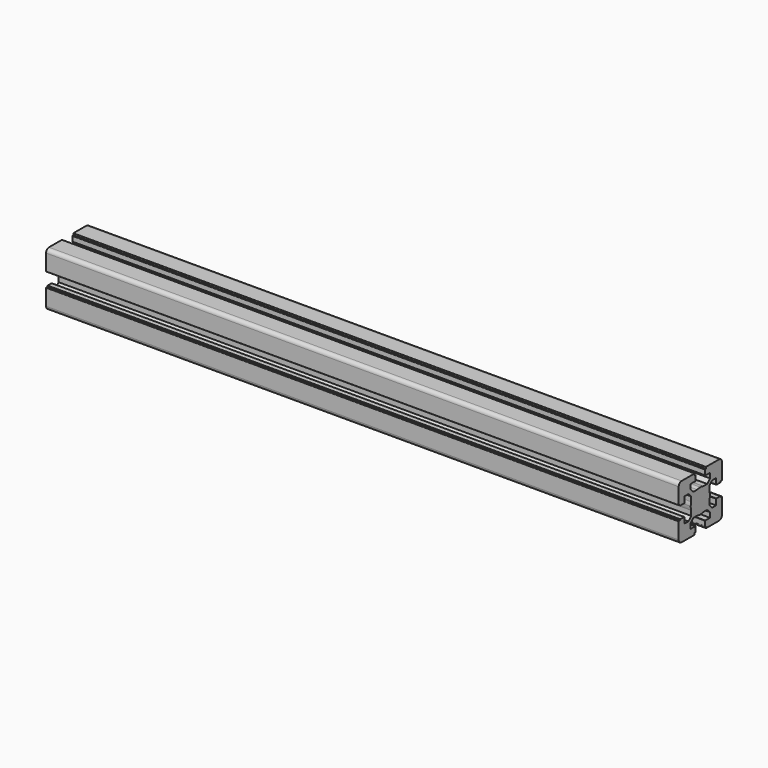
from build123d import *

# Parameters (mm, degrees)
F1_DEPTH = 527.05


with BuildPart() as f1:
    # F0 (on Right) → F1 (new body)
    with BuildSketch(Plane.YZ):
        with BuildLine():
            Line((-20.088481, -9.788837), (-20.088481, -10.288837))
            Line((-20.088481, -10.288837), (-21.28859, -10.288837))
            ThreePointArc((-21.28859, -10.288837), (-21.500722, -10.376705), (-21.58859, -10.588837))
            Line((-21.58859, -10.588837), (-21.58859, -23.988949))
            ThreePointArc((-21.58859, -23.988949), (-20.70991, -26.11027), (-18.58859, -26.988949))
            Line((-18.58859, -26.988949), (-5.188544, -26.988949))
            ThreePointArc((-5.188544, -26.988949), (-4.976411, -26.901081), (-4.888544, -26.688949))
            Line((-4.888544, -26.688949), (-4.888544, -25.488841))
            Line((-4.888544, -25.488841), (-4.388544, -25.488841))
            ThreePointArc((-4.388544, -25.488841), (-4.176411, -25.400973), (-4.088544, -25.188841))
            Line((-4.088544, -25.188841), (-4.088544, -21.288841))
            ThreePointArc((-4.088544, -21.288841), (-4.176411, -21.076709), (-4.388544, -20.988841))
            Line((-4.388544, -20.988841), (-9.138663, -20.988841))
            Line((-9.138663, -20.988841), (-9.138663, -16.881665))
            Line((-9.138663, -16.881665), (-6.245729, -13.988731))
            Line((-6.245729, -13.988731), (-2.211433, -13.988731))
            ThreePointArc((-2.211433, -13.988731), (-0.669869, -14.363044), (0.91149, -14.48887))
            Line((0.91149, -14.48887), (0.91149, -4.48887))
            Line((0.91149, -4.48887), (-9.08851, -4.48887))
            ThreePointArc((-9.08851, -4.48887), (-8.962684, -6.070229), (-8.588371, -7.611793))
            Line((-8.588371, -7.611793), (-8.588371, -11.646022))
            Line((-8.588371, -11.646022), (-11.481305, -14.538956))
            Line((-11.481305, -14.538956), (-15.588481, -14.538956))
            Line((-15.588481, -14.538956), (-15.588481, -9.788837))
            ThreePointArc((-15.588481, -9.788837), (-15.676349, -9.576705), (-15.888481, -9.488837))
            Line((-15.888481, -9.488837), (-19.788481, -9.488837))
            ThreePointArc((-19.788481, -9.488837), (-20.000613, -9.576705), (-20.088481, -9.788837))
        make_face()
        with BuildLine():
            ThreePointArc((-8.588371, -1.365947), (-8.962684, -2.907511), (-9.08851, -4.48887))
            Line((-9.08851, -4.48887), (0.91149, -4.48887))
            Line((0.91149, -4.48887), (0.91149, 5.51113))
            ThreePointArc((0.91149, 5.51113), (-0.669869, 5.385303), (-2.211433, 5.010991))
            Line((-2.211433, 5.010991), (-6.245729, 5.010991))
            Line((-6.245729, 5.010991), (-9.138663, 7.903925))
            Line((-9.138663, 7.903925), (-9.138663, 12.011101))
            Line((-9.138663, 12.011101), (-4.388544, 12.011101))
            ThreePointArc((-4.388544, 12.011101), (-4.176411, 12.098969), (-4.088544, 12.311101))
            Line((-4.088544, 12.311101), (-4.088544, 16.211101))
            ThreePointArc((-4.088544, 16.211101), (-4.176411, 16.423233), (-4.388544, 16.511101))
            Line((-4.388544, 16.511101), (-4.888544, 16.511101))
            Line((-4.888544, 16.511101), (-4.888544, 17.711209))
            ThreePointArc((-4.888544, 17.711209), (-4.976411, 17.923341), (-5.188544, 18.011209))
            Line((-5.188544, 18.011209), (-18.58859, 18.011209))
            ThreePointArc((-18.58859, 18.011209), (-20.70991, 17.13253), (-21.58859, 15.011209))
            Line((-21.58859, 15.011209), (-21.58859, 1.611097))
            ThreePointArc((-21.58859, 1.611097), (-21.500722, 1.398965), (-21.28859, 1.311097))
            Line((-21.28859, 1.311097), (-20.088481, 1.311097))
            Line((-20.088481, 1.311097), (-20.088481, 0.811097))
            ThreePointArc((-20.088481, 0.811097), (-20.000613, 0.598965), (-19.788481, 0.511097))
            Line((-19.788481, 0.511097), (-15.888481, 0.511097))
            ThreePointArc((-15.888481, 0.511097), (-15.676349, 0.598965), (-15.588481, 0.811097))
            Line((-15.588481, 0.811097), (-15.588481, 5.561216))
            Line((-15.588481, 5.561216), (-11.481305, 5.561216))
            Line((-11.481305, 5.561216), (-8.588371, 2.668282))
            Line((-8.588371, 2.668282), (-8.588371, -1.365947))
        make_face()
        with BuildLine():
            Line((0.91149, 5.51113), (0.91149, -4.48887))
            Line((0.91149, -4.48887), (10.91149, -4.48887))
            ThreePointArc((10.91149, -4.48887), (10.785663, -2.907511), (10.41135, -1.365947))
            Line((10.41135, -1.365947), (10.41135, 2.668282))
            Line((10.41135, 2.668282), (13.304285, 5.561216))
            Line((13.304285, 5.561216), (14.016842, 5.561216))
            Line((14.016842, 5.561216), (17.41146, 5.561216))
            Line((17.41146, 5.561216), (17.41146, 0.811097))
            ThreePointArc((17.41146, 0.811097), (17.499328, 0.598965), (17.71146, 0.511097))
            Line((17.71146, 0.511097), (21.61146, 0.511097))
            ThreePointArc((21.61146, 0.511097), (21.823593, 0.598965), (21.91146, 0.811097))
            Line((21.91146, 0.811097), (21.91146, 1.311097))
            Line((21.91146, 1.311097), (23.111569, 1.311097))
            ThreePointArc((23.111569, 1.311097), (23.323701, 1.398965), (23.411569, 1.611097))
            Line((23.411569, 1.611097), (23.411569, 15.011209))
            ThreePointArc((23.411569, 15.011209), (22.532889, 17.13253), (20.411569, 18.011209))
            Line((20.411569, 18.011209), (7.011523, 18.011209))
            ThreePointArc((7.011523, 18.011209), (6.799391, 17.923341), (6.711523, 17.711209))
            Line((6.711523, 17.711209), (6.711523, 16.511101))
            Line((6.711523, 16.511101), (6.211523, 16.511101))
            ThreePointArc((6.211523, 16.511101), (5.999391, 16.423233), (5.911523, 16.211101))
            Line((5.911523, 16.211101), (5.911523, 12.311101))
            ThreePointArc((5.911523, 12.311101), (5.999391, 12.098969), (6.211523, 12.011101))
            Line((6.211523, 12.011101), (10.961642, 12.011101))
            Line((10.961642, 12.011101), (10.961642, 7.903925))
            Line((10.961642, 7.903925), (8.068708, 5.010991))
            Line((8.068708, 5.010991), (4.034413, 5.010991))
            ThreePointArc((4.034413, 5.010991), (2.492849, 5.385303), (0.91149, 5.51113))
        make_face()
        with BuildLine():
            Line((10.91149, -4.48887), (0.91149, -4.48887))
            Line((0.91149, -4.48887), (0.91149, -14.48887))
            ThreePointArc((0.91149, -14.48887), (2.492849, -14.363044), (4.034413, -13.988731))
            Line((4.034413, -13.988731), (8.068708, -13.988731))
            Line((8.068708, -13.988731), (10.961642, -16.881665))
            Line((10.961642, -16.881665), (10.961642, -20.988841))
            Line((10.961642, -20.988841), (6.211523, -20.988841))
            ThreePointArc((6.211523, -20.988841), (5.999391, -21.076709), (5.911523, -21.288841))
            Line((5.911523, -21.288841), (5.911523, -25.188841))
            ThreePointArc((5.911523, -25.188841), (5.999391, -25.400973), (6.211523, -25.488841))
            Line((6.211523, -25.488841), (6.711523, -25.488841))
            Line((6.711523, -25.488841), (6.711523, -26.688949))
            ThreePointArc((6.711523, -26.688949), (6.799391, -26.901081), (7.011523, -26.988949))
            Line((7.011523, -26.988949), (20.411569, -26.988949))
            ThreePointArc((20.411569, -26.988949), (22.532889, -26.11027), (23.411569, -23.988949))
            Line((23.411569, -23.988949), (23.411569, -10.588837))
            ThreePointArc((23.411569, -10.588837), (23.323701, -10.376705), (23.111569, -10.288837))
            Line((23.111569, -10.288837), (21.91146, -10.288837))
            Line((21.91146, -10.288837), (21.91146, -9.788837))
            ThreePointArc((21.91146, -9.788837), (21.823593, -9.576705), (21.61146, -9.488837))
            Line((21.61146, -9.488837), (17.71146, -9.488837))
            ThreePointArc((17.71146, -9.488837), (17.499328, -9.576705), (17.41146, -9.788837))
            Line((17.41146, -9.788837), (17.41146, -14.538956))
            Line((17.41146, -14.538956), (13.304285, -14.538956))
            Line((13.304285, -14.538956), (10.41135, -11.646022))
            Line((10.41135, -11.646022), (10.41135, -7.611793))
            ThreePointArc((10.41135, -7.611793), (10.785663, -6.070229), (10.91149, -4.48887))
        make_face()
    extrude(amount=F1_DEPTH)


solid = f1.part
